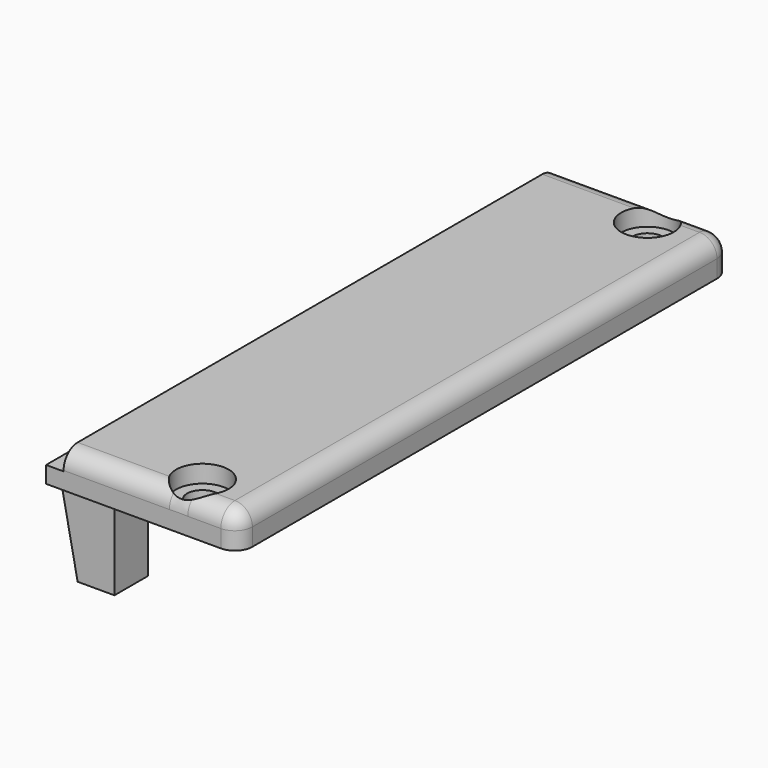
from build123d import *

# Parameters (mm, degrees)
SKETCH125_W          = 21.952
SKETCH125_H          = 70.3
SKETCH125_R          = 1.75
PAD042_DEPTH         = 4
FILLET010_R          = 2
SKETCH126_W          = 2
SKETCH126_H          = 2.1
POCKET054_DEPTH      = 35.151
POCKET054_DEPTH_BACK = 35.151
SKETCH127_R          = 3
POCKET053_DEPTH      = 2.001
SKETCH128_W          = 4.202
SKETCH128_H          = 4.8
PAD043_DEPTH         = 10
CHAMFER006_SIZE2     = 9.99
CHAMFER006_SIZE      = 1.99


with BuildPart() as part:
    # Sketch125 → Pad042 (new body)
    with BuildSketch(Plane.XY):
        with Locations((-19.024, 0)):
            Rectangle(SKETCH125_W, SKETCH125_H)
        with Locations((-14.873, 31.75)):
            Circle(SKETCH125_R, mode=Mode.SUBTRACT)
        with Locations((-14.873, -31.75)):
            Circle(SKETCH125_R, mode=Mode.SUBTRACT)
    extrude(amount=PAD042_DEPTH)

    # Fillet010
    fillet010_edges = [part.edges().sort_by_distance(p)[0] for p in [
        (-19.024, 35.15, 4),
        (-19.024, -35.15, 4),
        (-8.048, 0, 4),
        (-8.048, -35.15, 2),
        (-8.048, 35.15, 2),
    ]]
    fillet(fillet010_edges, radius=FILLET010_R)

    # Sketch126 → Pocket054 (cut, two sides)
    with BuildSketch(Plane.XZ) as pocket054_sk:
        with Locations((-29, 2.95)):
            Rectangle(SKETCH126_W, SKETCH126_H)
    extrude(amount=-POCKET054_DEPTH, mode=Mode.SUBTRACT)
    extrude(pocket054_sk.sketch, amount=POCKET054_DEPTH_BACK, mode=Mode.SUBTRACT)

    # Sketch127 → Pocket053 (cut, through all)
    with BuildSketch(Plane.XY.offset(2)):
        with Locations((-14.873, -31.75)):
            Circle(SKETCH127_R)
        with Locations((-14.873, 31.75)):
            Circle(SKETCH127_R)
    extrude(amount=POCKET053_DEPTH, mode=Mode.SUBTRACT)

    # Sketch128 → Pad043 (join)
    with BuildSketch(Plane.XY):
        with Locations((-25.899, 30.75)):
            Rectangle(SKETCH128_W, SKETCH128_H)
        with Locations((-25.899, -30.75)):
            Rectangle(SKETCH128_W, SKETCH128_H)
    extrude(amount=-PAD043_DEPTH)

    # Chamfer006
    chamfer006_edges = [part.edges().sort_by_distance(p)[0] for p in [
        (-28, 30.75, 0),
        (-28, -30.75, 0),
    ]]
    chamfer006_side = part.faces().sort_by_distance((-18.902955, 0, 0))[0]
    chamfer(chamfer006_edges, length=CHAMFER006_SIZE, length2=CHAMFER006_SIZE2, reference=chamfer006_side)


with BuildPart() as part_1:
    # Body062 placement: moved
    add(part.part.moved(Location((0, 0, 46))))


solid = part_1.part
